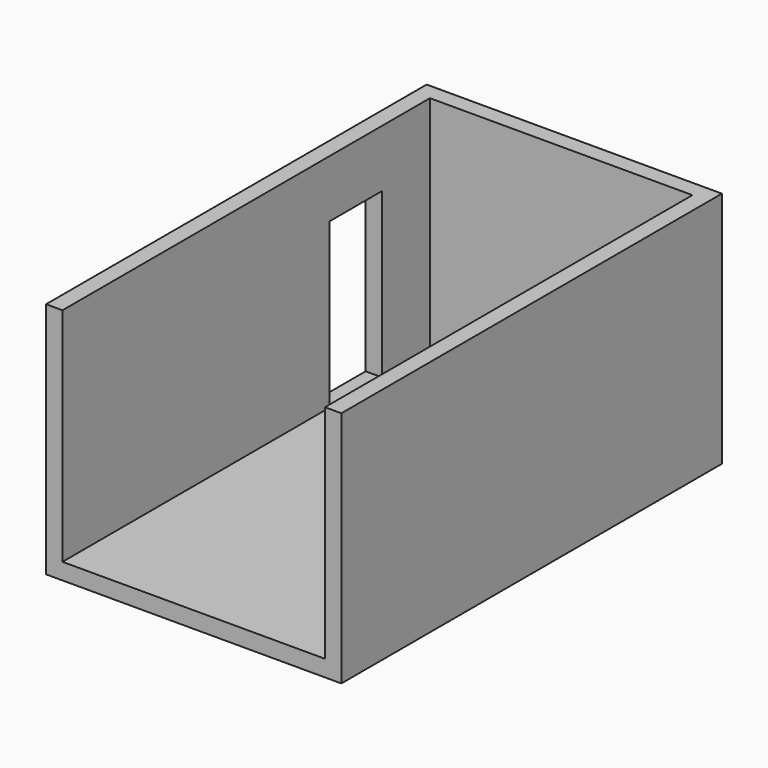
from build123d import *

# Parameters (mm, degrees)
F0_W     = 3600
F0_H     = 5800
F1_DEPTH = 2900
F2_W     = 3200
F2_H     = 2700
F3_DEPTH = 5600
F4_W     = 800
F4_H     = 2000
F5_DEPTH = 200


with BuildPart() as f1:
    # F0 (on Top) → F1 (new body)
    with BuildSketch(Plane.XY):
        Rectangle(F0_W, F0_H)
    extrude(amount=F1_DEPTH)

    # F2 (on face) → F3 (cut)
    with BuildSketch(Plane.XZ.offset(2900)):
        with Locations((0, 1550)):
            Rectangle(F2_W, F2_H)
    extrude(amount=-F3_DEPTH, mode=Mode.SUBTRACT)

    # F4 (on face) → F5 (cut, through all)
    with BuildSketch(Plane.YZ.offset(-1600)):
        with Locations((1570, 1200)):
            Rectangle(F4_W, F4_H)
    extrude(amount=-F5_DEPTH, mode=Mode.SUBTRACT)


solid = f1.part
